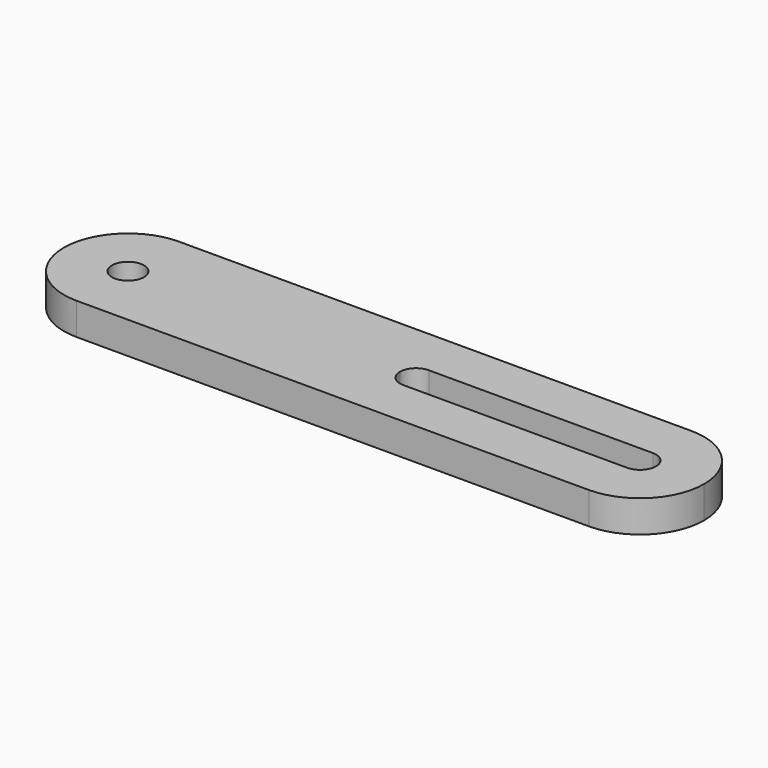
from build123d import *

# Parameters (mm, degrees)
F0_R     = 2.5
F1_DEPTH = 5


with BuildPart() as f1:
    # F0 (on Top) → F1 (new body)
    with BuildSketch(Plane.XY):
        with BuildLine():
            Line((42.361588, 9.98228), (-37.638412, 9.98228))
            ThreePointArc((-37.638412, 9.98228), (-44.70948, 7.053347), (-47.638412, -0.01772))
            ThreePointArc((-47.638412, -0.01772), (-44.70948, -7.088788), (-37.638412, -10.01772))
            Line((-37.638412, -10.01772), (42.361588, -10.01772))
            ThreePointArc((42.361588, -10.01772), (49.432656, -7.088788), (52.361588, -0.01772))
            ThreePointArc((52.361588, -0.01772), (49.432656, 7.053347), (42.361588, 9.98228))
        make_face()
        with Locations((-37.638412, -0.01772)):
            Circle(F0_R, mode=Mode.SUBTRACT)
        with BuildLine():
            ThreePointArc((4.861588, -0.01772), (5.593821, 1.750047), (7.361588, 2.48228))
            Line((7.361588, 2.48228), (42.361588, 2.48228))
            ThreePointArc((42.361588, 2.48228), (44.129355, 1.750047), (44.861588, -0.01772))
            ThreePointArc((44.861588, -0.01772), (44.129355, -1.785487), (42.361588, -2.51772))
            Line((42.361588, -2.51772), (7.361588, -2.51772))
            ThreePointArc((7.361588, -2.51772), (5.593821, -1.785487), (4.861588, -0.01772))
        make_face(mode=Mode.SUBTRACT)
    extrude(amount=F1_DEPTH)


solid = f1.part
